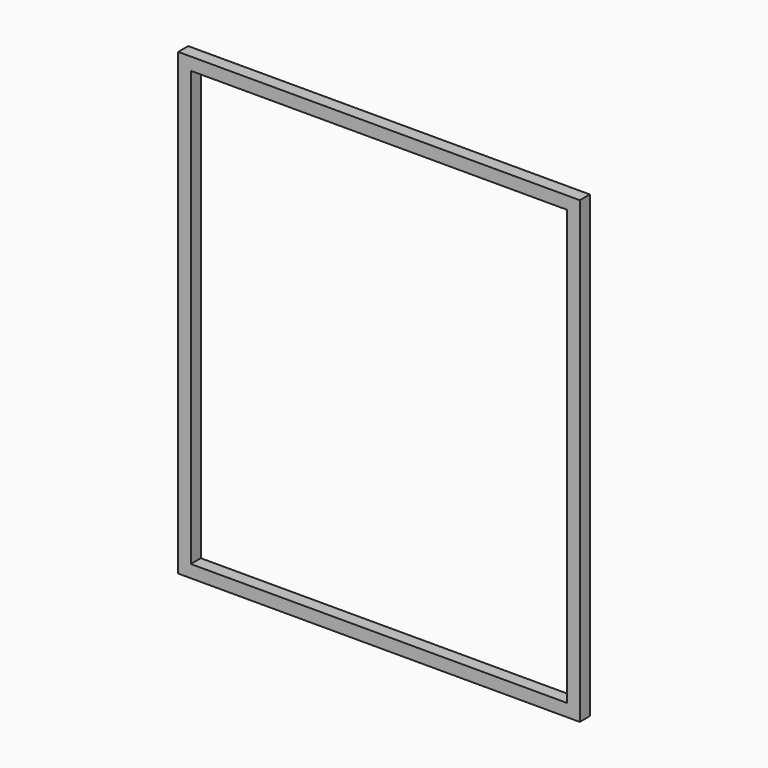
from build123d import *

# Parameters (mm, degrees)
F0_W     = 1500
F0_H     = 1730
F1_DEPTH = 50


with BuildPart() as f1:
    # F0 (on Front) → F1 (new body)
    with BuildSketch(Plane.XZ):
        Polygon((1550, 0), (0, 0), (0, -1830), (1600, -1830), (1600, 0), align=None)
        with Locations((800, -915)):
            Rectangle(F0_W, F0_H, mode=Mode.SUBTRACT)
    extrude(amount=F1_DEPTH)


solid = f1.part
